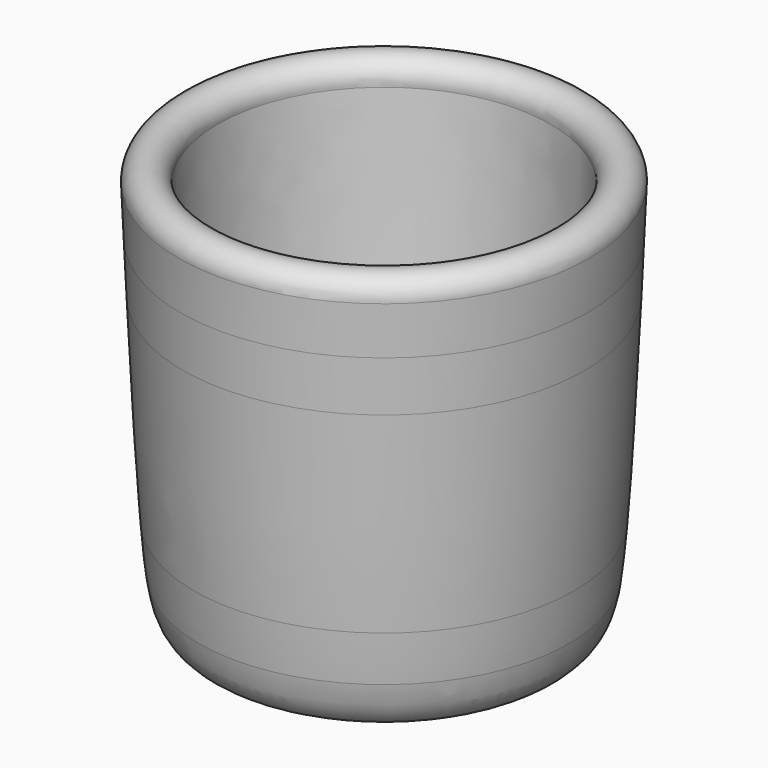
from build123d import *


with BuildPart() as f1:
    # F0 (on Front) → F1 (revolve)
    with BuildSketch(Plane.XZ):
        with BuildLine():
            Line((-27.2238329053, -55.5883422494), (0, -55.5883422494))
            Line((0, -55.5883422494), (0, -47.068208456))
            Line((0, -47.068208456), (-23.2680570334, -47.068208456))
            add(Edge.make_bspline(
                [(-23.2680570334, -47.068208456), (-25.5088637186, -47.4642308074), (-29.6326503464, -48.1930360576), (-31.1560791205, -42.8370749408), (-31.8910235678, -35.1008660903), (-34.7880248023, 1.5262923699), (-35.8434428533, 21.4998055282), (-36.352545023, 31.1344321817)],
                knots=[0, 0, 0, 0, 0.1280992022, 0.2357426817, 0.3832087108, 0.7024782897, 1, 1, 1, 1], degree=3))
            ThreePointArc((-36.352545023, 31.1344321817), (-40.2650547895, 36.3045005578), (-44.8726788163, 31.743016094))
            add(Edge.make_bspline(
                [(-44.4172865669, 21.0857379546), (-44.5694811204, 24.6208968985), (-44.7210799684, 28.1819564962), (-44.8726788163, 31.743016094)],
                knots=[0.9282049168, 0.9282049168, 0.9282049168, 0.9282049168, 1, 1, 1, 1], degree=3))
            add(Edge.make_bspline(
                [(-43.9256418108, 9.8513077213), (-44.0906937814, 13.5452306732), (-44.2543316331, 17.3006380376), (-44.4172865669, 21.0857379546)],
                knots=[0.8513338149, 0.8513338149, 0.8513338149, 0.8513338149, 0.9282049168, 0.9282049168, 0.9282049168, 0.9282049168], degree=3))
            add(Edge.make_bspline(
                [(-41.5491669902, -33.3291011108), (-42.414069446, -22.0984724428), (-43.184126635, -6.7440707967), (-43.9256418108, 9.8513077213)],
                knots=[0.5059814484, 0.5059814484, 0.5059814484, 0.5059814484, 0.8513338149, 0.8513338149, 0.8513338149, 0.8513338149], degree=3))
            add(Edge.make_bspline(
                [(-40.5045605351, -43.7876585582), (-40.7944902932, -41.8864626635), (-41.1246522492, -38.6002245299), (-41.4413590627, -34.72897088), (-41.5491669902, -33.3291011108)],
                knots=[0.3812268362, 0.3812268362, 0.3812268362, 0.3812268362, 0.4629341398, 0.5059814484, 0.5059814484, 0.5059814484, 0.5059814484], degree=3))
            add(Edge.make_bspline(
                [(-27.2238329053, -55.5883422494), (-30.9350621627, -55.1081430588), (-37.7946501224, -54.2205749896), (-39.8836892751, -47.8589822424), (-40.5045605351, -43.7876585582)],
                knots=[0, 0, 0, 0, 0.2062543985, 0.3812268362, 0.3812268362, 0.3812268362, 0.3812268362], degree=3))
        make_face()
    revolve(axis=Axis((0, 0, -51.3282753527), (0, 0, 1)))


solid = f1.part
